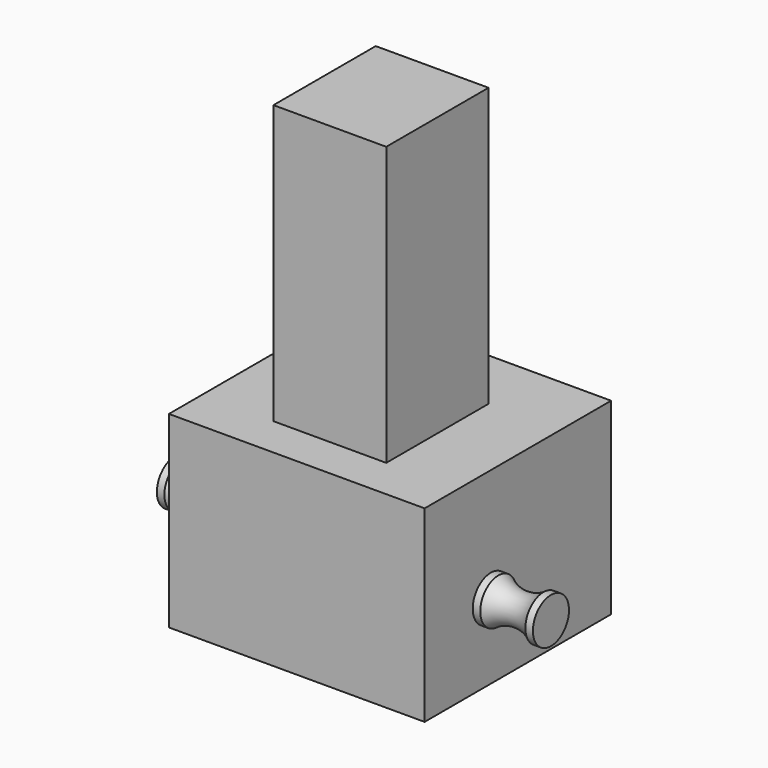
from build123d import *

# Parameters (mm, degrees)
SKETCH016_W       = 17
SKETCH016_H       = 31
PAD011_DEPTH      = 15
PAD011_DEPTH_BACK = 10
SKETCH017_W       = 7.5
SKETCH017_H       = 17
PAD012_DEPTH      = 37


with BuildPart() as part:
    # Sketch014 → Revolution002 (revolve)
    with BuildSketch(Plane.XZ):
        with BuildLine():
            Line((-24, 3), (-25, 3))
            Line((-25, 3), (-25, 0))
            Line((-25, 0), (-17, 0))
            Line((-17, 0), (-17, 3))
            Line((-17, 3), (-18, 3))
            ThreePointArc((-24, 3), (-21, 2), (-18, 3))
        make_face()
    revolve(axis=Axis((0, 0, 0), (1, 0, 0)))

    # Sketch016 → Pad011 (new body, two sides)
    with BuildSketch(Plane.XY) as pad011_sk:
        with Locations((-8.5, 4.5)):
            Rectangle(SKETCH016_W, SKETCH016_H)
    extrude(amount=PAD011_DEPTH)
    extrude(pad011_sk.sketch, amount=-PAD011_DEPTH_BACK)

    # Sketch017 (on Face8 of Pad011) → Pad012 (join)
    with BuildSketch(Plane(origin=(0, 0, 15), x_dir=(-1, 0, 0), z_dir=(0, 0, 1))):
        with Locations((3.75, -3)):
            Rectangle(SKETCH017_W, SKETCH017_H)
    extrude(amount=PAD012_DEPTH)

    # Mirrored002: part across YZ


with BuildPart() as part_1:
    add(part.part)
    add(part.part.mirror(Plane.YZ))


solid = part_1.part
